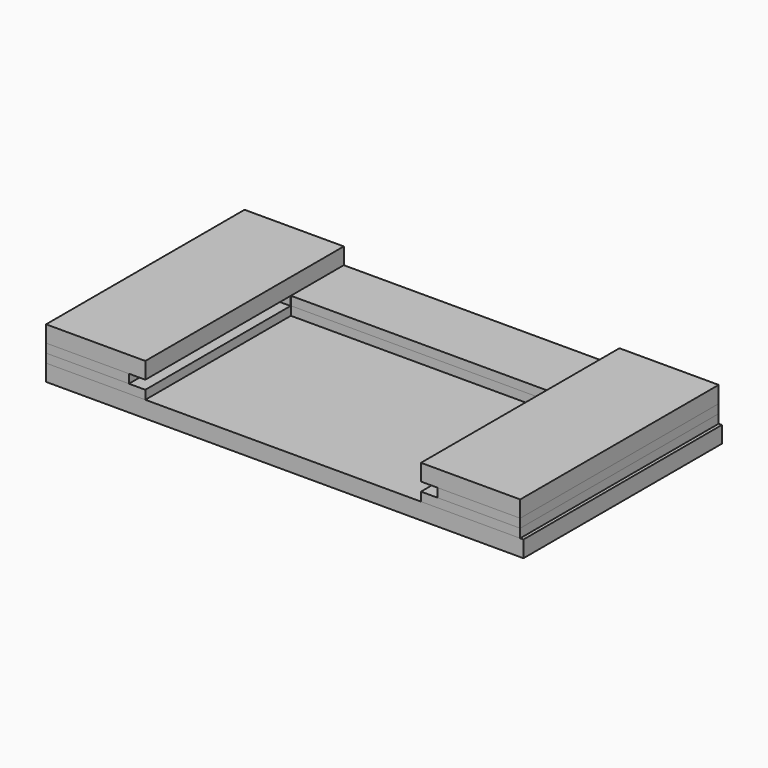
from build123d import *

# Parameters (mm, degrees)
F1_DEPTH = 1.6
F3_DEPTH = 1.6
F4_W     = 18
F4_H     = 45
F5_DEPTH = 3
F6_W     = 86.589366
F6_H     = 45
F7_DEPTH = 3


with BuildPart() as f1:
    # F0 (on Top) → F1 (new body)
    with BuildSketch(Plane.XY):
        Polygon((43, -22.5), (43, 22.5), (-43, 22.5), (-43, -22.5), (-25, -22.5), (-25, 10.5), (25, 10.5), (25, -22.5), align=None)
    extrude(amount=F1_DEPTH)


with BuildPart() as f3:
    # F2 (on face) → F3 (new body)
    with BuildSketch(Plane.XY.offset(1.6)):
        Polygon((43, -22.5), (43, 22.5), (-43, 22.5), (-43, -22.5), (-27.972288, -22.5), (-27.972288, 10.422795), (-25, 10.422795), (-25, 10.5), (25, 10.5), (25, 10.422795), (27.972288, 10.422795), (27.972288, -22.5), align=None)
    extrude(amount=F3_DEPTH)


with BuildPart() as f5:
    # F4 (on face) → F5 (new body)
    with BuildSketch(Plane.XY.offset(3.2)):
        with Locations((-34, 0)):
            Rectangle(F4_W, F4_H)
        with Locations((34, 0)):
            Rectangle(F4_W, F4_H)
    extrude(amount=F5_DEPTH)


with BuildPart() as f7:
    # F6 (on Top) → F7 (new body)
    with BuildSketch(Plane.XY):
        with Locations((0.294683, 0)):
            Rectangle(F6_W, F6_H)
    extrude(amount=-F7_DEPTH)


solid = Compound([f1.part, f3.part, f5.part, f7.part])
